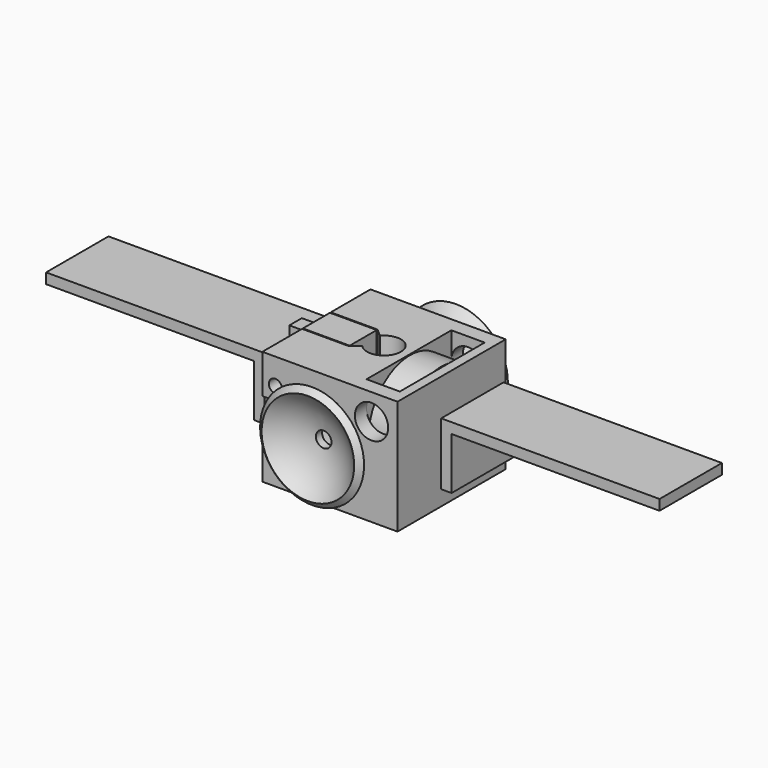
from build123d import *

# Parameters (mm, degrees)
F1_R          = 1.25
F2_DEPTH      = 3.25
F1_W          = 4
F1_H          = 2
F3_DEPTH      = 1.5
F5_START      = 5
F4_R          = 10
F5_DEPTH      = 6
F7_DEPTH      = 20
F8_DEPTH      = 2
F9_DEPTH      = 13.001
F9_DEPTH_BACK = 13.001
F10_W         = 15
F10_H         = 5
F10_R         = 3.2
F11_DEPTH     = 26.001
F12_R         = 4
F13_DEPTH     = 2
F16_W         = 2
F16_H         = 2
F16_W_2       = 40
F16_H_2       = 10
F17_DEPTH     = 7.5
F18_W         = 6.4
F18_H         = 4
F19_DEPTH     = 2


with BuildPart() as f2:
    # F1 (on Front) → F2 (new body, symmetric)
    with BuildSketch(Plane.XZ):
        Polygon((-13, 0), (-4, 0), (-4, 20), (-13, 20), (-13, 18.5), (-13, 16.5), (-13, 11), (-13, 9), (-13, 3.5), (-13, 1.5), align=None)
        with Locations((-10.5, 5)):
            Circle(F1_R, mode=Mode.SUBTRACT)
        with Locations((-10.5, 15)):
            Circle(F1_R, mode=Mode.SUBTRACT)
    extrude(amount=F2_DEPTH, both=True)


with BuildPart() as f3:
    # F1 (on Front) → F3 (new body, symmetric)
    with BuildSketch(Plane.XZ):
        with Locations((-15, 17.5)):
            Rectangle(F1_W, F1_H)
    extrude(amount=F3_DEPTH, both=True)


with BuildPart() as f3b:
    # F1 (on Front) → F3, piece 2 (new body, symmetric)
    with BuildSketch(Plane.XZ):
        with Locations((-15, 10)):
            Rectangle(F1_W, F1_H)
    extrude(amount=F3_DEPTH, both=True)


with BuildPart() as f3c:
    # F1 (on Front) → F3, piece 3 (new body, symmetric)
    with BuildSketch(Plane.XZ):
        with Locations((-15, 2.5)):
            Rectangle(F1_W, F1_H)
    extrude(amount=F3_DEPTH, both=True)


with BuildPart() as f5:
    # F4 (on Right) → F5 (new body)
    with BuildSketch(Plane.YZ.offset(F5_START)):
        with Locations((0, 10)):
            Circle(F4_R)
    extrude(amount=F5_DEPTH)


with BuildPart() as f7:
    # F6 (on Top) → F7 (new body, through all)
    with BuildSketch(Plane.XY):
        with BuildLine():
            Line((-13, 13), (-13, 3.45))
            Line((-13, 3.45), (-4, 3.45))
            Line((-4, 3.45), (-2.4610576884, 2.1226622563))
            ThreePointArc((-2.4610576884, 2.1226622563), (1.132268191, 3.0463861777), (3.25, 0))
            ThreePointArc((3.25, 0), (1.132268191, -3.0463861777), (-2.4610576884, -2.1226622563))
            Line((-2.4610576884, -2.1226622563), (-4, -3.45))
            Line((-4, -3.45), (-13, -3.45))
            Line((-13, -3.45), (-13, -13))
            Line((-13, -13), (13, -13))
            Line((13, -13), (13, 0))
            Line((13, 0), (13, 13))
            Line((13, 13), (-13, 13))
        make_face()
        Polygon((11.2, 10.2), (11.2, 0), (11.2, -10.2), (4.8, -10.2), (4.8, 0), (4.8, 10.2), align=None, mode=Mode.SUBTRACT)
    extrude(amount=F7_DEPTH)

    # F6 (on Top) → F8 (join)
    with BuildSketch(Plane.XY):
        with BuildLine():
            Line((-13, 13), (-13, 3.45))
            Line((-13, 3.45), (-4, 3.45))
            Line((-4, 3.45), (-2.4610576884, 2.1226622563))
            ThreePointArc((-2.4610576884, 2.1226622563), (1.132268191, 3.0463861777), (3.25, 0))
            ThreePointArc((3.25, 0), (1.132268191, -3.0463861777), (-2.4610576884, -2.1226622563))
            Line((-2.4610576884, -2.1226622563), (-4, -3.45))
            Line((-4, -3.45), (-13, -3.45))
            Line((-13, -3.45), (-13, -13))
            Line((-13, -13), (13, -13))
            Line((13, -13), (13, 0))
            Line((13, 0), (13, 13))
            Line((13, 13), (-13, 13))
        make_face()
        Polygon((11.2, 10.2), (11.2, 0), (11.2, -10.2), (4.8, -10.2), (4.8, 0), (4.8, 10.2), align=None, mode=Mode.SUBTRACT)
        Polygon((11.2, -10.2), (11.2, 0), (11.2, 10.2), (4.8, 10.2), (4.8, 0), (4.8, -10.2), align=None)
    extrude(amount=-F8_DEPTH)

    # F1 (on Front) → F9 (cut, two sides)
    with BuildSketch(Plane.XZ) as f9_sk:
        with Locations((-10.5, 15)):
            Circle(F1_R)
        with Locations((-10.5, 5)):
            Circle(F1_R)
    extrude(amount=-F9_DEPTH, mode=Mode.SUBTRACT)
    extrude(f9_sk.sketch, amount=F9_DEPTH_BACK, mode=Mode.SUBTRACT)

    # F10 (on face) → F11 (cut, through all)
    with BuildSketch(Plane.XZ.offset(13)):
        with Locations((-5.5, 10)):
            Rectangle(F10_W, F10_H)
        with Locations((8, 15)):
            Circle(F10_R)
    extrude(amount=-F11_DEPTH, mode=Mode.SUBTRACT)

    # F12 (on face) → F13 (cut)
    with BuildSketch(Plane(origin=(0, 0, -2), x_dir=(1, 0, 0), z_dir=(0, 0, -1))):
        Circle(F12_R)
    extrude(amount=-F13_DEPTH, mode=Mode.SUBTRACT)

    # F18 (on face) → F19 (cut, through all)
    with BuildSketch(Plane(origin=(0, 0, -2), x_dir=(1, 0, 0), z_dir=(0, 0, -1))):
        with Locations((8, 0)):
            Rectangle(F18_W, F18_H)
    extrude(amount=-F19_DEPTH, mode=Mode.SUBTRACT)


with BuildPart() as f15:
    # F14 (on Right) → F15 (revolve)
    with BuildSketch(Plane.YZ):
        with BuildLine():
            Line((-14.5, 11.5000000001), (-13, 11.5000000001))
            ThreePointArc((-13, 11.5000000001), (-14.3774914786, 16.136744585), (-17.2881856771, 20))
            Line((-17.2881856771, 20), (-18.3, 18.9065605671))
            ThreePointArc((-18.3, 18.9065605671), (-15.7450162133, 15.539325384), (-14.5, 11.5000000001))
        make_face()
    revolve(axis=Axis((0, -13.2708434956, 10.0000000001), (0, -1, 0)))


with BuildPart() as f15b:
    # F14 (on Right) → F15, piece 2 (revolve)
    with BuildSketch(Plane.YZ):
        with BuildLine():
            ThreePointArc((17.2881856771, 20), (14.3774914786, 16.136744585), (13, 11.5000000001))
            Line((13, 11.5000000001), (14.5, 11.5000000001))
            ThreePointArc((14.5, 11.5000000001), (15.7450162133, 15.539325384), (18.3, 18.9065605671))
            Line((18.3, 18.9065605671), (17.2881856771, 20))
        make_face()
    revolve(axis=Axis((0, -13.2708434956, 10.0000000001), (0, -1, 0)))


with BuildPart() as f17:
    # F16 (on Front) → F17 (new body, symmetric)
    with BuildSketch(Plane.XZ):
        with Locations((-18, 15.2500000002)):
            Rectangle(F16_W, F16_H)
        with Locations((-39, 15.2500000002)):
            Rectangle(F16_W_2, F16_H)
        with Locations((-18, 9.2500000002)):
            Rectangle(F16_W, F16_H_2)
    extrude(amount=F17_DEPTH, both=True)


with BuildPart() as f17b:
    # F16 (on Front) → F17, piece 2 (new body, symmetric)
    with BuildSketch(Plane.XZ):
        with Locations((39, 15.2500000002)):
            Rectangle(F16_W_2, F16_H)
        with Locations((18, 15.2500000002)):
            Rectangle(F16_W, F16_H)
        with Locations((18, 9.2500000002)):
            Rectangle(F16_W, F16_H_2)
    extrude(amount=F17_DEPTH, both=True)


solid = Compound([f2.part, f3.part, f3b.part, f3c.part, f5.part, f7.part, f15.part, f15b.part, f17.part, f17b.part])
